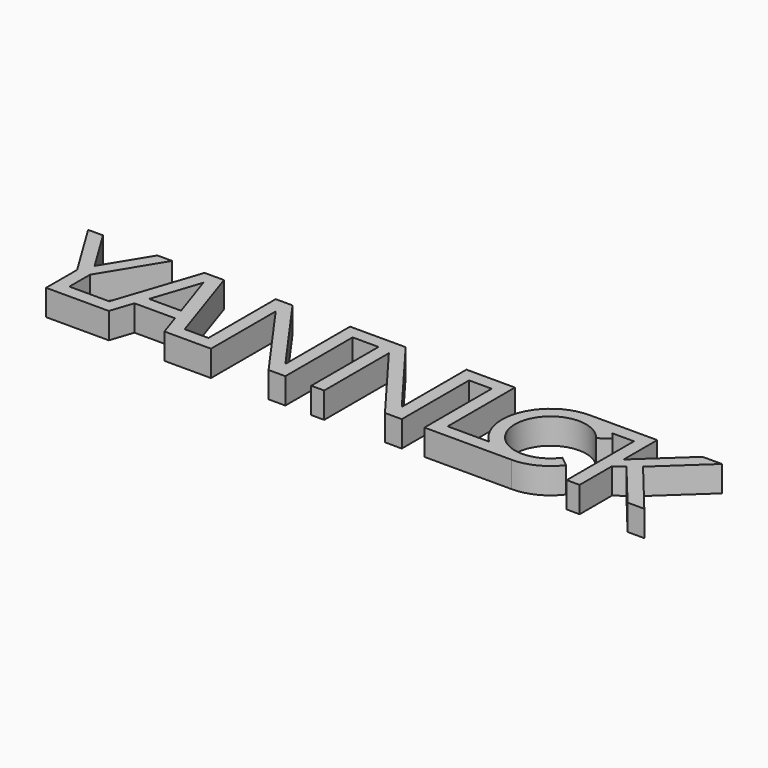
from build123d import *

# Parameters (mm, degrees)
F1_DEPTH = 4


with BuildPart() as f1:
    # F0 (on Top) → F1 (new body)
    with BuildSketch(Plane.XY):
        with BuildLine():
            Line((-36, 7.5), (-38.3, 7.5))
            Line((-38.3, 7.5), (-42.5, 0.627273))
            Line((-42.5, 0.627273), (-46.7, 7.5))
            Line((-46.7, 7.5), (-49, 7.5))
            Line((-49, 7.5), (-43.5, -1.5))
            Line((-43.5, -1.5), (-43.5, -7.5))
            Line((-43.5, -7.5), (-33.8, -7.5))
            Line((-33.8, -7.5), (-32.633333, -4))
            Line((-32.633333, -4), (-26.366667, -4))
            Line((-26.366667, -4), (-25.2, -7.5))
            Line((-25.2, -7.5), (-18, -7.5))
            Line((-18, -7.5), (-18, 5))
            Line((-18, 5), (-9.1, -7.5))
            Line((-9.1, -7.5), (-6.5, -7.5))
            Line((-6.5, -7.5), (-6.5, 5.5))
            Line((-6.5, 5.5), (-2.5, 5.5))
            Line((-2.5, 5.5), (-2.5, -7.5))
            Line((-2.5, -7.5), (-0.5, -7.5))
            Line((-0.5, -7.5), (-0.5, 5))
            Line((-0.5, 5), (8.9, -7.5))
            Line((8.9, -7.5), (11.5, -7.5))
            Line((11.5, -7.5), (11.5, 5.5))
            Line((11.5, 5.5), (15, 5.5))
            Line((15, 5.5), (15, -7.5))
            Line((15, -7.5), (28.5, -7.5))
            ThreePointArc((28.5, -7.5), (31.854102, -6.708204), (34.5, -4.5))
            Line((34.5, -4.5), (32.927723, -3.262708))
            ThreePointArc((32.927723, -3.262708), (23, 0.000996), (32.928905, 3.261105))
            Line((32.928905, 3.261105), (34.5, 4.5))
            ThreePointArc((34.5, 4.5), (34.071989, 5.020253), (33.59902, 5.5))
            Line((33.59902, 5.5), (37, 5.5))
            Line((37, 5.5), (37.000574, -7.5))
            Line((37.000574, -7.5), (39, -7.5))
            Line((39, -7.5), (39, -1.268202))
            Line((39, -1.268202), (40.40328, -0.207228))
            Line((40.40328, -0.207228), (46.409092, -7.5))
            Line((46.409092, -7.5), (49, -7.5))
            Line((49, -7.5), (42, 1))
            Line((42, 1), (49, 7.5))
            Line((49, 7.5), (46, 7.5))
            Line((46, 7.5), (39, 1))
            Line((39, 1), (39, 7.5))
            Line((39, 7.5), (28.5, 7.5))
            ThreePointArc((28.5, 7.5), (28.484278, 7.499984), (28.468557, 7.499934))
            ThreePointArc((28.468557, 7.499934), (21.512155, 2.723971), (23.40098, -5.5))
            Line((23.40098, -5.5), (17, -5.5))
            Line((17, -5.5), (17, 7.5))
            Line((17, 7.5), (9.5, 7.5))
            Line((9.5, 7.5), (9.5, -5))
            Line((9.5, -5), (0.1, 7.5))
            Line((0.1, 7.5), (-8.5, 7.5))
            Line((-8.5, 7.5), (-8.5, -5))
            Line((-8.5, -5), (-17.4, 7.5))
            Line((-17.4, 7.5), (-20, 7.5))
            Line((-20, 7.5), (-20, -5.5))
            Line((-20, -5.5), (-23.666667, -5.5))
            Line((-23.666667, -5.5), (-28, 7.5))
            Line((-28, 7.5), (-31, 7.5))
            Line((-31, 7.5), (-35.333333, -5.5))
            Line((-35.333333, -5.5), (-41.5, -5.5))
            Line((-41.5, -5.5), (-41.5, -1.5))
            Line((-41.5, -1.5), (-36, 7.5))
        make_face()
        Polygon((-27.033333, -2), (-31.966667, -2), (-29.5, 5.4), align=None, mode=Mode.SUBTRACT)
    extrude(amount=F1_DEPTH)


solid = f1.part
